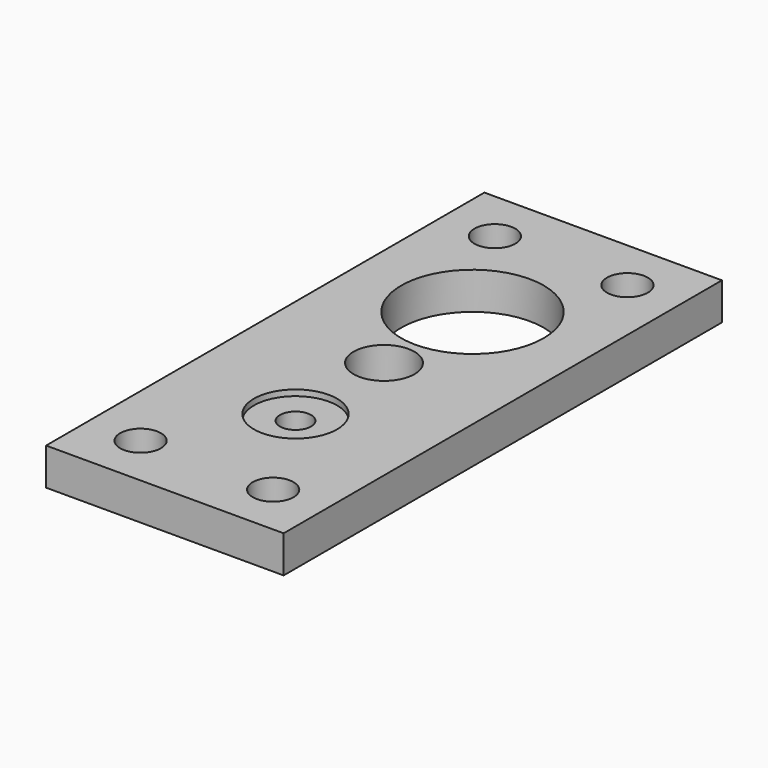
from build123d import *

# Parameters (mm, degrees)
F1_W     = 32
F1_H     = 73.8
F1_R     = 5.6
F1_R_2   = 4.1
F1_R_3   = 9.6
F2_DEPTH = 5
F4_D     = 5.5
F4_DEPTH = 14.4
F4_TIP   = 1.6523667023
F5_R     = 9.1
F5_R_2   = 2.1
F6_DEPTH = 4.2


with BuildPart() as f2:
    # F1 (on Top) → F2 (new body)
    with BuildSketch(Plane.XY):
        with Locations((0, 14.9)):
            Rectangle(F1_W, F1_H)
        Circle(F1_R, mode=Mode.SUBTRACT)
        with Locations((0, 14.9)):
            Circle(F1_R_2, mode=Mode.SUBTRACT)
        with Locations((0, 29.8)):
            Circle(F1_R_3, mode=Mode.SUBTRACT)
    extrude(amount=F2_DEPTH)

    # F4
    with Locations(Plane.XY.offset(5)):
        with Locations((-8.9289321881, 44.7289321881), (8.9289321881, 44.7289321881), (8.9289321881, -14.9289321881), (-8.9289321881, -14.9289321881)):
            Hole(F4_D / 2, depth=F4_DEPTH)
            with Locations((0, 0, -(F4_DEPTH + F4_TIP / 2))):  # 118° drill point
                Cone(0, F4_D / 2, F4_TIP, mode=Mode.SUBTRACT)


with BuildPart() as f6:
    # F5 (on Top) → F6 (new body)
    with BuildSketch(Plane.XY):
        Circle(F5_R)
        Circle(F5_R_2, mode=Mode.SUBTRACT)
    extrude(amount=F6_DEPTH)


solid = Compound([f2.part, f6.part])
